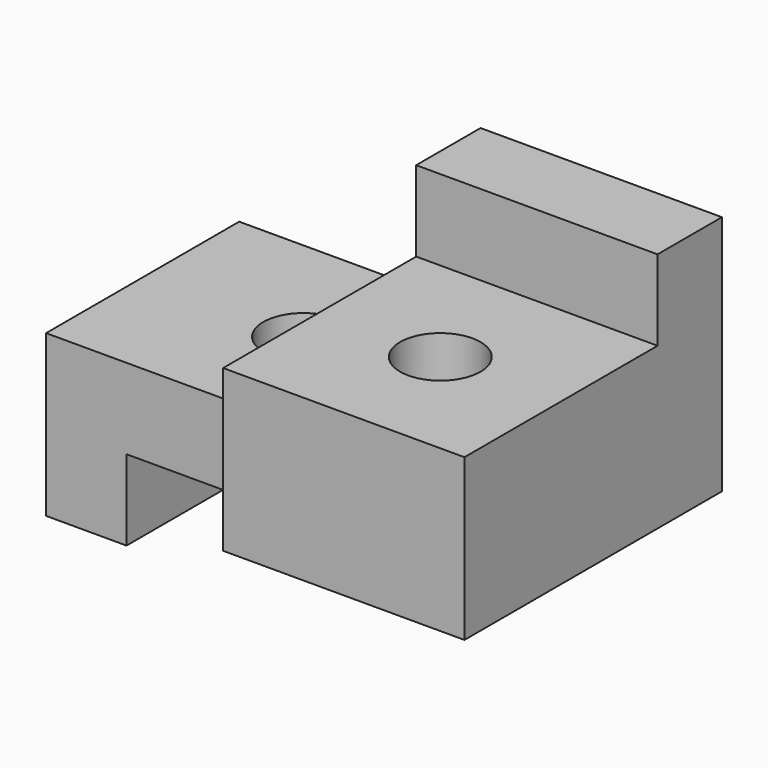
from build123d import *

# Parameters (mm, degrees)
F2_DEPTH = 19.05
F3_DEPTH = 19.05
F4_R     = 3.175
F5_DEPTH = 25.401


with BuildPart() as f2:
    # F0 (on Front) → F2 (new body)
    with BuildSketch(Plane.XZ):
        Polygon((-19.05, 12.7), (-19.05, 0), (-12.7, 0), (-12.7, 6.35), (0, 6.35), (0, 12.7), align=None)
    extrude(amount=F2_DEPTH)

    # F1 (on Right) → F3 (join)
    with BuildSketch(Plane.YZ):
        Polygon((-25.4, 6.35), (0, 6.35), (0, 25.4), (-6.35, 25.4), (-6.35, 19.05), (-25.4, 19.05), align=None)
    extrude(amount=F3_DEPTH)

    # F4 (on Top) → F5 (cut, through all)
    with BuildSketch(Plane.XY):
        with Locations((-6.35, -9.525)):
            Circle(F4_R)
        with Locations((9.525, -15.875)):
            Circle(F4_R)
    extrude(amount=F5_DEPTH, mode=Mode.SUBTRACT)


solid = f2.part
